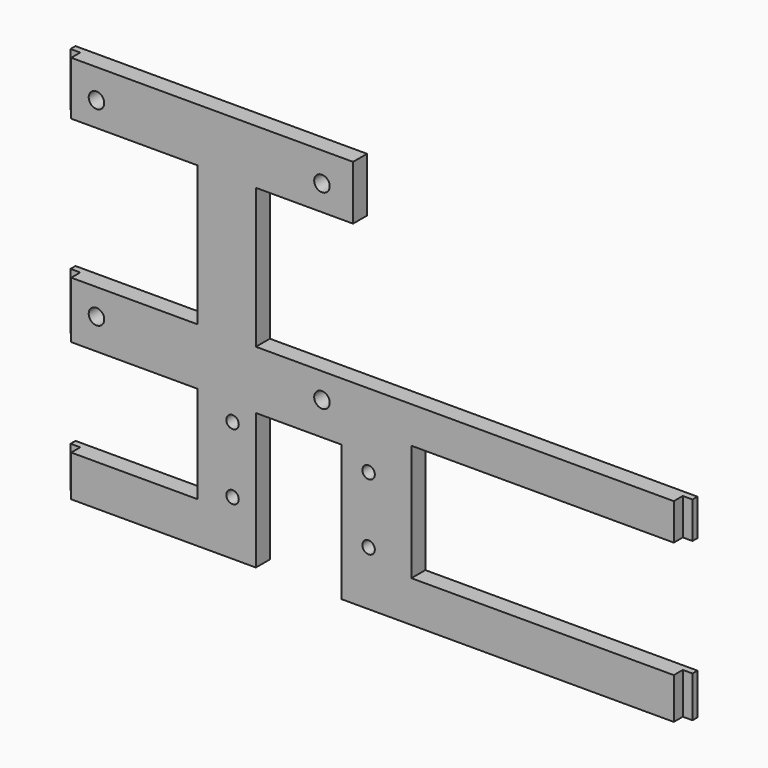
from build123d import *

# Parameters (mm, degrees)
BOX005_W          = 70
BOX005_H          = 10
BOX005_DEPTH      = 30
BOX006_W          = 35
BOX006_H          = 10
BOX006_DEPTH      = 25
BOX007_W          = 35
BOX007_H          = 10
BOX007_DEPTH      = 36
BOX008_W          = 85
BOX008_H          = 10
BOX008_DEPTH      = 50
BOX009_W          = 22
BOX009_H          = 10
BOX009_DEPTH      = 35
BOX004_W          = 110
BOX004_H          = 10
BOX004_DEPTH      = 36
CYLINDER008_R     = 2
CYLINDER008_DEPTH = 10
CYLINDER009_R     = 2
CYLINDER009_DEPTH = 10
CYLINDER010_R     = 2
CYLINDER010_DEPTH = 10
CYLINDER011_R     = 2
CYLINDER011_DEPTH = 10
CYLINDER005_R     = 1.6
CYLINDER005_DEPTH = 10
CYLINDER007_R     = 1.6
CYLINDER007_DEPTH = 10
CYLINDER004_R     = 1.6
CYLINDER004_DEPTH = 10
CYLINDER006_R     = 1.6
CYLINDER006_DEPTH = 10
BOX_W             = 160
BOX_H             = 1.6
BOX_DEPTH         = 100
BOX001_W          = 155
BOX001_H          = 2.9
BOX001_DEPTH      = 100


with BuildPart() as cuts002:
    # Box005 → Box005 (new body)
    with BuildSketch(Plane(origin=(90, 10, 14.6), x_dir=(1, 0, 0), z_dir=(0, 0, 1))):
        with Locations((35, 5)):
            Rectangle(BOX005_W, BOX005_H)
    extrude(amount=BOX005_DEPTH)


with BuildPart() as cuts003:
    # Box006 → Box006 (new body)
    with BuildSketch(Plane(origin=(0, 10, 14.6), x_dir=(1, 0, 0), z_dir=(0, 0, 1))):
        with Locations((17.5, 5)):
            Rectangle(BOX006_W, BOX006_H)
    extrude(amount=BOX006_DEPTH)


with BuildPart() as cuts004:
    # Box007 → Box007 (new body)
    with BuildSketch(Plane(origin=(0, 10, 54.2), x_dir=(1, 0, 0), z_dir=(0, 0, 1))):
        with Locations((17.5, 5)):
            Rectangle(BOX007_W, BOX007_H)
    extrude(amount=BOX007_DEPTH)


with BuildPart() as cuts005:
    # Box008 → Box008 (new body)
    with BuildSketch(Plane(origin=(75, 10, 54), x_dir=(1, 0, 0), z_dir=(0, 0, 1))):
        with Locations((42.5, 5)):
            Rectangle(BOX008_W, BOX008_H)
    extrude(amount=BOX008_DEPTH)


with BuildPart() as cuts006:
    # Box009 → Box009 (new body)
    with BuildSketch(Plane(origin=(50, 10, 4), x_dir=(1, 0, 0), z_dir=(0, 0, 1))):
        with Locations((11, 5)):
            Rectangle(BOX009_W, BOX009_H)
    extrude(amount=BOX009_DEPTH)


with BuildPart() as cuts:
    # Box004 → Box004 (new body)
    with BuildSketch(Plane(origin=(50, 10, 54), x_dir=(1, 0, 0), z_dir=(0, 0, 1))):
        with Locations((55, 5)):
            Rectangle(BOX004_W, BOX004_H)
    extrude(amount=BOX004_DEPTH)

    # Fusion005: union cuts002, cuts003, cuts004, cuts005, cuts006
    add(cuts002.part)
    add(cuts003.part)
    add(cuts004.part)
    add(cuts005.part)
    add(cuts006.part)


with BuildPart() as m2s008:
    # Cylinder008 → Cylinder008 (new body)
    with BuildSketch(Plane(origin=(9, 0, 47.5), x_dir=(1, 0, 0), z_dir=(0, -1, 0))):
        Circle(CYLINDER008_R)
    extrude(amount=CYLINDER008_DEPTH)


with BuildPart() as m2s009:
    # Cylinder009 → Cylinder009 (new body)
    with BuildSketch(Plane(origin=(67, 0, 47.5), x_dir=(1, 0, 0), z_dir=(0, -1, 0))):
        Circle(CYLINDER009_R)
    extrude(amount=CYLINDER009_DEPTH)


with BuildPart() as m2s010:
    # Cylinder010 → Cylinder010 (new body)
    with BuildSketch(Plane(origin=(67, 0, 96.5), x_dir=(1, 0, 0), z_dir=(0, -1, 0))):
        Circle(CYLINDER010_R)
    extrude(amount=CYLINDER010_DEPTH)


with BuildPart() as c1cuts:
    # Cylinder011 → Cylinder011 (new body)
    with BuildSketch(Plane(origin=(9, 0, 96.5), x_dir=(1, 0, 0), z_dir=(0, -1, 0))):
        Circle(CYLINDER011_R)
    extrude(amount=CYLINDER011_DEPTH)

    # Fusion003: union m2s008, m2s009, m2s010
    add(m2s008.part)
    add(m2s009.part)
    add(m2s010.part)


with BuildPart() as c1cuts_1:
    # Fusion003 placement: moved
    add(c1cuts.part.moved(Location((0, 16.4, 0))))


with BuildPart() as m2s005:
    # Cylinder005 → Cylinder005 (new body)
    with BuildSketch(Plane(origin=(14, 0, 20), x_dir=(1, 0, 0), z_dir=(0, -1, 0))):
        Circle(CYLINDER005_R)
    extrude(amount=CYLINDER005_DEPTH)


with BuildPart() as m2s007:
    # Cylinder007 → Cylinder007 (new body)
    with BuildSketch(Plane(origin=(49, 0, 20), x_dir=(1, 0, 0), z_dir=(0, -1, 0))):
        Circle(CYLINDER007_R)
    extrude(amount=CYLINDER007_DEPTH)


with BuildPart() as m2s004:
    # Cylinder004 → Cylinder004 (new body)
    with BuildSketch(Plane(origin=(49, 0, 3), x_dir=(1, 0, 0), z_dir=(0, -1, 0))):
        Circle(CYLINDER004_R)
    extrude(amount=CYLINDER004_DEPTH)


with BuildPart() as basecuts:
    # Cylinder006 → Cylinder006 (new body)
    with BuildSketch(Plane(origin=(14, 0, 3), x_dir=(1, 0, 0), z_dir=(0, -1, 0))):
        Circle(CYLINDER006_R)
    extrude(amount=CYLINDER006_DEPTH)

    # Fusion002: union m2s005, m2s007, m2s004
    add(m2s005.part)
    add(m2s007.part)
    add(m2s004.part)


with BuildPart() as basecuts_1:
    # Fusion002 placement: moved
    add(basecuts.part.moved(Location((30, 16.2, 15))))

    # Fusion004: union c1Cuts
    add(c1cuts_1.part)


with BuildPart() as base:
    # Box → Box (new body)
    with BuildSketch(Plane(origin=(0, 14.6, 4), x_dir=(1, 0, 0), z_dir=(0, 0, 1))):
        with Locations((80, 0.8)):
            Rectangle(BOX_W, BOX_H)
    extrude(amount=BOX_DEPTH)


with BuildPart() as cut002:
    # Box001 → Box001 (new body)
    with BuildSketch(Plane(origin=(2.5, 11.7, 4), x_dir=(1, 0, 0), z_dir=(0, 0, 1))):
        with Locations((77.5, 1.45)):
            Rectangle(BOX001_W, BOX001_H)
    extrude(amount=BOX001_DEPTH)

    # Fusion001: union base
    add(base.part)

    # Cut001: cut baseCuts
    add(basecuts_1.part, mode=Mode.SUBTRACT)

    # Cut002: cut cuts
    add(cuts.part, mode=Mode.SUBTRACT)


solid = cut002.part
